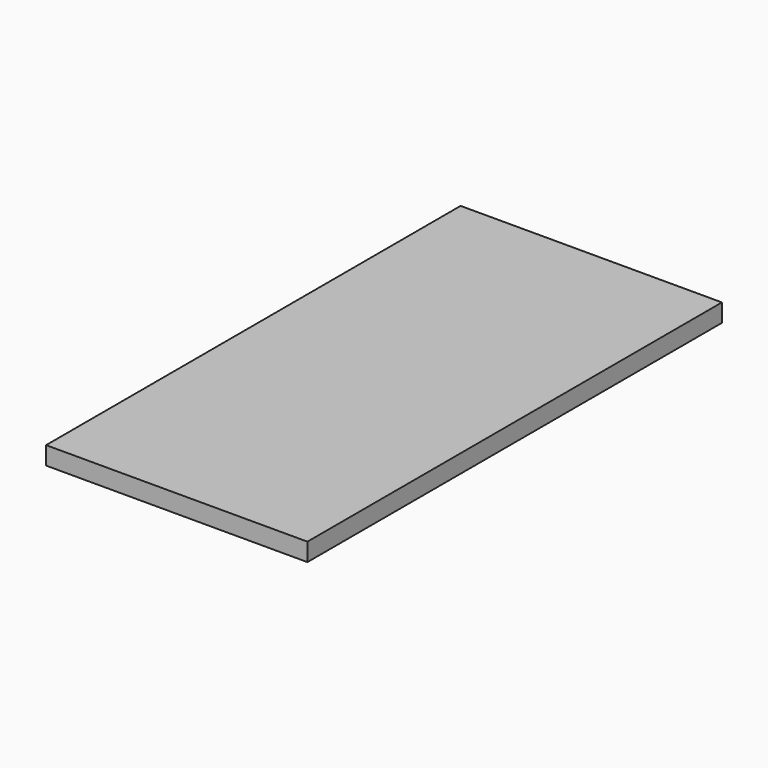
from build123d import *

# Parameters (mm, degrees)
F0_W     = 3683
F0_H     = 7302.5
F1_DEPTH = 254
F2_DEPTH = 203.2
F3_W     = 257.175
F3_H     = 317.5
F3_W_2   = 558.8
F3_W_3   = 206.375
F3_H_2   = 558.8
F3_W_4   = 536.575
F3_W_5   = 250.825
F3_W_6   = 171.45
F3_H_3   = 266.7
F4_DEPTH = 50.8


with BuildPart() as f1:
    # F0 (on Top) → F1 (new body)
    with BuildSketch(Plane.XY):
        with Locations((-1555.75, 3365.5)):
            Rectangle(F0_W, F0_H)
        Polygon((0, 5156.2), (0, 0), (-2343.15, 0), (-2343.15, 2794), (-3232.15, 2794), (-3232.15, 3810), (-2946.4, 3810), (-2946.4, 6731), (0, 6731), (0, 5899.15), (-34.925, 5899.15), (-34.925, 5156.2), align=None, mode=Mode.SUBTRACT)
    extrude(amount=-F1_DEPTH)

    # F0 (on Top) → F2 (join)
    with BuildSketch(Plane.XY):
        with Locations((-1555.75, 3365.5)):
            Rectangle(F0_W, F0_H)
        Polygon((0, 5156.2), (0, 0), (-2343.15, 0), (-2343.15, 2794), (-3232.15, 2794), (-3232.15, 3810), (-2946.4, 3810), (-2946.4, 6731), (0, 6731), (0, 5899.15), (-34.925, 5899.15), (-34.925, 5156.2), align=None, mode=Mode.SUBTRACT)
        Polygon((-2343.15, 0), (0, 0), (0, 5156.2), (-34.925, 5156.2), (-34.925, 5899.15), (0, 5899.15), (0, 6731), (-2946.4, 6731), (-2946.4, 3810), (-3232.15, 3810), (-3232.15, 2794), (-2343.15, 2794), align=None)
    extrude(amount=-F2_DEPTH)

    # F3 (on face) → F4 (cut)
    with BuildSketch(Plane(origin=(0, 0, -203.2), x_dir=(1, 0, 0), z_dir=(0, 0, -1))):
        with Locations((-2214.5625, -158.75)):
            Rectangle(F3_W, F3_H)
        with Locations((-1755.775, -158.75)):
            Rectangle(F3_W_2, F3_H)
        with Locations((-1146.175, -158.75)):
            Rectangle(F3_W_2, F3_H)
        with Locations((-536.575, -158.75)):
            Rectangle(F3_W_2, F3_H)
        with Locations((-103.1875, -158.75)):
            Rectangle(F3_W_3, F3_H)
        with Locations((-103.1875, -647.7)):
            Rectangle(F3_W_3, F3_H_2)
        with Locations((-536.575, -647.7)):
            Rectangle(F3_W_2, F3_H_2)
        with Locations((-1146.175, -647.7)):
            Rectangle(F3_W_2, F3_H_2)
        with Locations((-1755.775, -647.7)):
            Rectangle(F3_W_2, F3_H_2)
        with Locations((-2214.5625, -647.7)):
            Rectangle(F3_W, F3_H_2)
        with Locations((-2214.5625, -1257.3)):
            Rectangle(F3_W, F3_H_2)
        with Locations((-1755.775, -1257.3)):
            Rectangle(F3_W_2, F3_H_2)
        with Locations((-1146.175, -1257.3)):
            Rectangle(F3_W_2, F3_H_2)
        with Locations((-536.575, -1257.3)):
            Rectangle(F3_W_2, F3_H_2)
        with Locations((-103.1875, -1257.3)):
            Rectangle(F3_W_3, F3_H_2)
        with Locations((-103.1875, -1866.9)):
            Rectangle(F3_W_3, F3_H_2)
        with Locations((-536.575, -1866.9)):
            Rectangle(F3_W_2, F3_H_2)
        with Locations((-1146.175, -1866.9)):
            Rectangle(F3_W_2, F3_H_2)
        with Locations((-1755.775, -1866.9)):
            Rectangle(F3_W_2, F3_H_2)
        with Locations((-2214.5625, -1866.9)):
            Rectangle(F3_W, F3_H_2)
        with Locations((-2214.5625, -2476.5)):
            Rectangle(F3_W, F3_H_2)
        with Locations((-1755.775, -2476.5)):
            Rectangle(F3_W_2, F3_H_2)
        with Locations((-1146.175, -2476.5)):
            Rectangle(F3_W_2, F3_H_2)
        with Locations((-536.575, -2476.5)):
            Rectangle(F3_W_2, F3_H_2)
        with Locations((-103.1875, -2476.5)):
            Rectangle(F3_W_3, F3_H_2)
        with Locations((-103.1875, -3086.1)):
            Rectangle(F3_W_3, F3_H_2)
        with Locations((-536.575, -3086.1)):
            Rectangle(F3_W_2, F3_H_2)
        with Locations((-1146.175, -3086.1)):
            Rectangle(F3_W_2, F3_H_2)
        with Locations((-1755.775, -3086.1)):
            Rectangle(F3_W_2, F3_H_2)
        with Locations((-2365.375, -3086.1)):
            Rectangle(F3_W_2, F3_H_2)
        with Locations((-2963.8625, -3086.1)):
            Rectangle(F3_W_4, F3_H_2)
        Polygon((-2695.575, -3416.3), (-3232.15, -3416.3), (-3232.15, -3810), (-2946.4, -3810), (-2946.4, -3975.1), (-2695.575, -3975.1), align=None)
        with Locations((-2365.375, -3695.7)):
            Rectangle(F3_W_2, F3_H_2)
        with Locations((-1755.775, -3695.7)):
            Rectangle(F3_W_2, F3_H_2)
        with Locations((-1146.175, -3695.7)):
            Rectangle(F3_W_2, F3_H_2)
        with Locations((-536.575, -3695.7)):
            Rectangle(F3_W_2, F3_H_2)
        with Locations((-103.1875, -3695.7)):
            Rectangle(F3_W_3, F3_H_2)
        with Locations((-2820.9875, -4305.3)):
            Rectangle(F3_W_5, F3_H_2)
        with Locations((-2365.375, -4305.3)):
            Rectangle(F3_W_2, F3_H_2)
        with Locations((-1755.775, -4305.3)):
            Rectangle(F3_W_2, F3_H_2)
        with Locations((-1146.175, -4305.3)):
            Rectangle(F3_W_2, F3_H_2)
        with Locations((-536.575, -4305.3)):
            Rectangle(F3_W_2, F3_H_2)
        with Locations((-103.1875, -4305.3)):
            Rectangle(F3_W_3, F3_H_2)
        Polygon((0, -5156.2), (0, -4635.5), (-206.375, -4635.5), (-206.375, -5194.3), (-34.925, -5194.3), (-34.925, -5156.2), align=None)
        with Locations((-536.575, -4914.9)):
            Rectangle(F3_W_2, F3_H_2)
        with Locations((-1146.175, -4914.9)):
            Rectangle(F3_W_2, F3_H_2)
        with Locations((-1755.775, -4914.9)):
            Rectangle(F3_W_2, F3_H_2)
        with Locations((-2365.375, -4914.9)):
            Rectangle(F3_W_2, F3_H_2)
        with Locations((-2820.9875, -4914.9)):
            Rectangle(F3_W_5, F3_H_2)
        with Locations((-2820.9875, -5524.5)):
            Rectangle(F3_W_5, F3_H_2)
        with Locations((-2365.375, -5524.5)):
            Rectangle(F3_W_2, F3_H_2)
        with Locations((-1755.775, -5524.5)):
            Rectangle(F3_W_2, F3_H_2)
        with Locations((-1146.175, -5524.5)):
            Rectangle(F3_W_2, F3_H_2)
        with Locations((-536.575, -5524.5)):
            Rectangle(F3_W_2, F3_H_2)
        with Locations((-120.65, -5524.5)):
            Rectangle(F3_W_6, F3_H_2)
        Polygon((-34.925, -5899.15), (-34.925, -5854.7), (-206.375, -5854.7), (-206.375, -6413.5), (0, -6413.5), (0, -5899.15), align=None)
        with Locations((-536.575, -6134.1)):
            Rectangle(F3_W_2, F3_H_2)
        with Locations((-1146.175, -6134.1)):
            Rectangle(F3_W_2, F3_H_2)
        with Locations((-1755.775, -6134.1)):
            Rectangle(F3_W_2, F3_H_2)
        with Locations((-2365.375, -6134.1)):
            Rectangle(F3_W_2, F3_H_2)
        with Locations((-2820.9875, -6134.1)):
            Rectangle(F3_W_5, F3_H_2)
        with Locations((-2820.9875, -6597.65)):
            Rectangle(F3_W_5, F3_H_3)
        with Locations((-2365.375, -6597.65)):
            Rectangle(F3_W_2, F3_H_3)
        with Locations((-1755.775, -6597.65)):
            Rectangle(F3_W_2, F3_H_3)
        with Locations((-1146.175, -6597.65)):
            Rectangle(F3_W_2, F3_H_3)
        with Locations((-536.575, -6597.65)):
            Rectangle(F3_W_2, F3_H_3)
        with Locations((-103.1875, -6597.65)):
            Rectangle(F3_W_3, F3_H_3)
    extrude(amount=-F4_DEPTH, mode=Mode.SUBTRACT)


solid = f1.part
